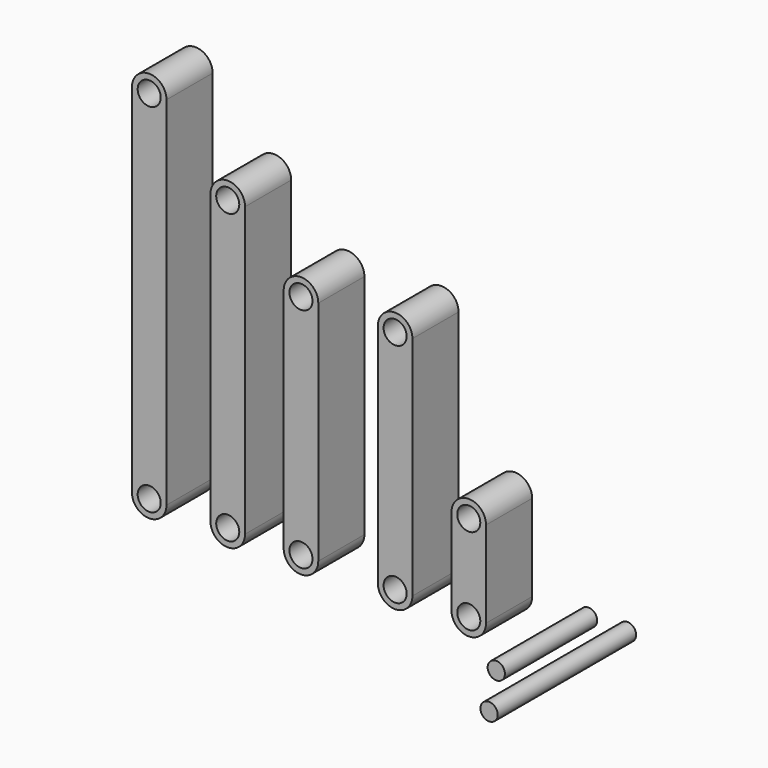
from build123d import *

# Parameters (mm, degrees)
F1_R      = 2
F2_DEPTH  = 10
F3_R      = 2
F4_DEPTH  = 10
F5_R      = 2
F6_DEPTH  = 10
F7_R      = 2
F8_DEPTH  = 10
F9_R      = 2
F10_DEPTH = 10
F11_R     = 1.5
F12_DEPTH = 20
F13_R     = 1.5
F14_DEPTH = 30


with BuildPart() as f2:
    # F1 (on Front) → F2 (new body)
    with BuildSketch(Plane.XZ):
        with BuildLine():
            Line((-15.7723604936, 15), (-15.7723604936, 0))
            ThreePointArc((-15.7723604936, 0), (-12.7723604936, -3), (-9.7723604936, 0))
            Line((-9.7723604936, 0), (-9.7723604936, 15))
            ThreePointArc((-9.7723604936, 15), (-12.7723604936, 18), (-15.7723604936, 15))
        make_face()
        with Locations((-12.7723604936, 0)):
            Circle(F1_R, mode=Mode.SUBTRACT)
        with Locations((-12.7723604936, 15)):
            Circle(F1_R, mode=Mode.SUBTRACT)
    extrude(amount=F2_DEPTH)


with BuildPart() as f4:
    # F3 (on Front) → F4 (new body)
    with BuildSketch(Plane.XZ):
        with BuildLine():
            Line((-28.5428169801, 39.3), (-28.5428169801, 0))
            ThreePointArc((-28.5428169801, 0), (-25.5428169801, -3), (-22.5428169801, 0))
            Line((-22.5428169801, 0), (-22.5428169801, 39.3))
            ThreePointArc((-22.5428169801, 39.3), (-25.5428169801, 42.3), (-28.5428169801, 39.3))
        make_face()
        with Locations((-25.5428169801, 0)):
            Circle(F3_R, mode=Mode.SUBTRACT)
        with Locations((-25.5428169801, 39.3)):
            Circle(F3_R, mode=Mode.SUBTRACT)
    extrude(amount=F4_DEPTH)


with BuildPart() as f6:
    # F5 (on Front) → F6 (new body)
    with BuildSketch(Plane.XZ):
        with BuildLine():
            Line((-44.8750046201, 39.4), (-44.8750046201, 0))
            ThreePointArc((-44.8750046201, 0), (-41.8750046201, -3), (-38.8750046201, 0))
            Line((-38.8750046201, 0), (-38.8750046201, 39.4))
            ThreePointArc((-38.8750046201, 39.4), (-41.8750046201, 42.4), (-44.8750046201, 39.4))
        make_face()
        with Locations((-41.8750046201, 0)):
            Circle(F5_R, mode=Mode.SUBTRACT)
        with Locations((-41.8750046201, 39.4)):
            Circle(F5_R, mode=Mode.SUBTRACT)
    extrude(amount=F6_DEPTH)


with BuildPart() as f8:
    # F7 (on Front) → F8 (new body)
    with BuildSketch(Plane.XZ):
        with BuildLine():
            Line((-57.5748284761, 50), (-57.5748284761, 0))
            ThreePointArc((-57.5748284761, 0), (-54.5748284761, -3), (-51.5748284761, 0))
            Line((-51.5748284761, 0), (-51.5748284761, 50))
            ThreePointArc((-51.5748284761, 50), (-54.5748284761, 53), (-57.5748284761, 50))
        make_face()
        with Locations((-54.5748284761, 0)):
            Circle(F7_R, mode=Mode.SUBTRACT)
        with Locations((-54.5748284761, 50)):
            Circle(F7_R, mode=Mode.SUBTRACT)
    extrude(amount=F8_DEPTH)


with BuildPart() as f10:
    # F9 (on Front) → F10 (new body)
    with BuildSketch(Plane.XZ):
        with BuildLine():
            Line((-71.1991949677, 61.9), (-71.1991949677, 0))
            ThreePointArc((-71.1991949677, 0), (-68.1991949677, -3), (-65.1991949677, 0))
            Line((-65.1991949677, 0), (-65.1991949677, 61.9))
            ThreePointArc((-65.1991949677, 61.9), (-68.1991949677, 64.9), (-71.1991949677, 61.9))
        make_face()
        with Locations((-68.1991949677, 0)):
            Circle(F9_R, mode=Mode.SUBTRACT)
        with Locations((-68.1991949677, 61.9)):
            Circle(F9_R, mode=Mode.SUBTRACT)
    extrude(amount=F10_DEPTH)


with BuildPart() as f12:
    # F11 (on Front) → F12 (new body)
    with BuildSketch(Plane.XZ):
        Circle(F11_R)
    extrude(amount=F12_DEPTH)


with BuildPart() as f14:
    # F13 (on Front) → F14 (new body)
    with BuildSketch(Plane.XZ):
        with Locations((6.7503562369, 0)):
            Circle(F13_R)
    extrude(amount=F14_DEPTH)


solid = Compound([f2.part, f4.part, f6.part, f8.part, f10.part, f12.part, f14.part])
